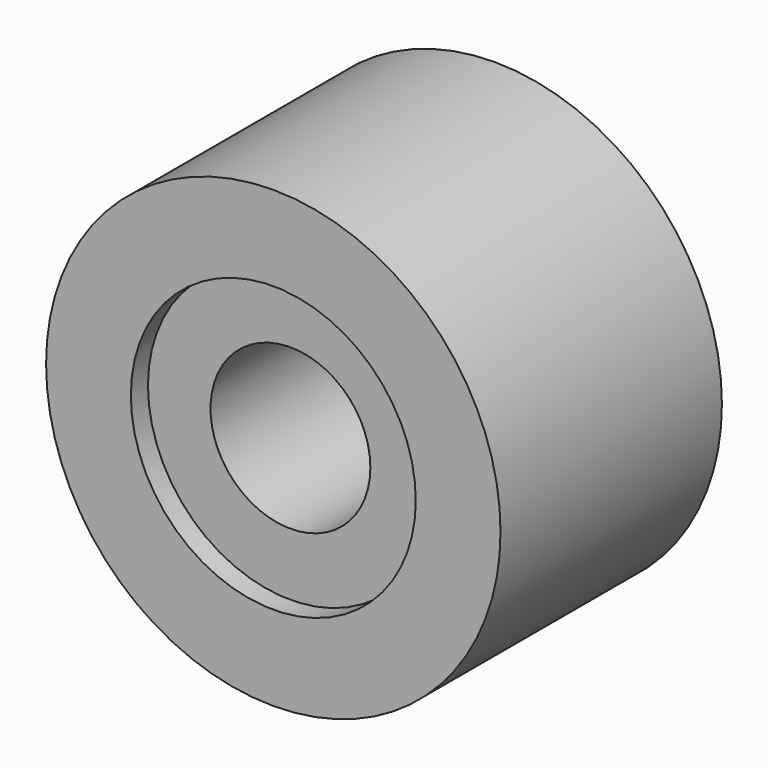
from build123d import *

# Parameters (mm, degrees)
F0_R     = 4.45
F0_R_2   = 2.79
F1_DEPTH = 5.42
F0_R_3   = 1.565
F2_DEPTH = 5
F3_DEPTH = 5.42


with BuildPart() as f1:
    # F0 (on Front) → F1 (new body)
    with BuildSketch(Plane.XZ):
        with Locations((-44.581614, 35.172123)):
            Circle(F0_R)
        with Locations((-44.581614, 35.172123)):
            Circle(F0_R_2, mode=Mode.SUBTRACT)
    extrude(amount=F1_DEPTH)

    # F0 (on Front) → F2 (join)
    with BuildSketch(Plane.XZ):
        with Locations((-44.581614, 35.172123)):
            Circle(F0_R_2)
        with Locations((-44.581614, 35.172123)):
            Circle(F0_R_3, mode=Mode.SUBTRACT)
    extrude(amount=F2_DEPTH)

    # F0 (on Front) → F3 (cut)
    with BuildSketch(Plane.XZ):
        with Locations((-44.581614, 35.172123)):
            Circle(F0_R_3)
    extrude(amount=-F3_DEPTH, mode=Mode.SUBTRACT)


solid = f1.part
